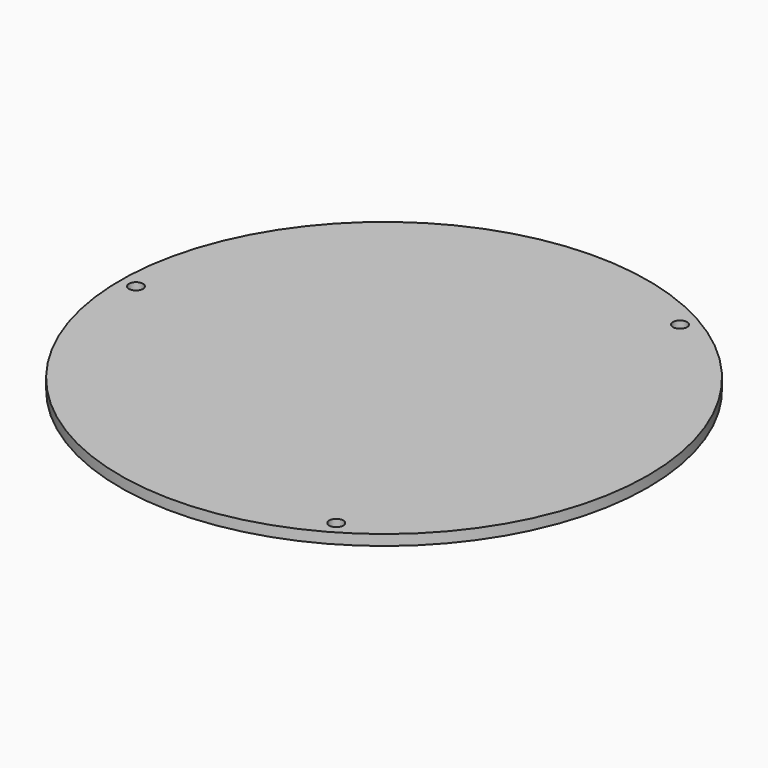
from build123d import *

# Parameters (mm, degrees)
SKETCH_R   = 75
SKETCH_R_2 = 2
PAD_DEPTH  = 3


with BuildPart() as part:
    # Sketch → Pad (new body)
    with BuildSketch(Plane.XY):
        Circle(SKETCH_R)
        with Locations((-70.5, 0)):
            Circle(SKETCH_R_2, mode=Mode.SUBTRACT)
        with Locations((35.25, 61.054791)):
            Circle(SKETCH_R_2, mode=Mode.SUBTRACT)
        with Locations((35.25, -61.054791)):
            Circle(SKETCH_R_2, mode=Mode.SUBTRACT)
    extrude(amount=PAD_DEPTH)


solid = part.part
